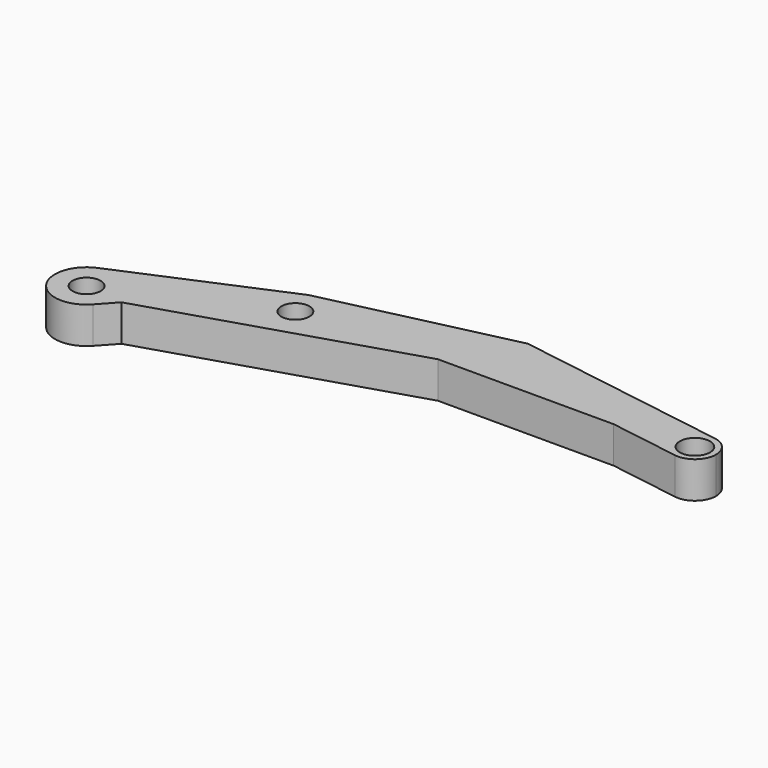
from build123d import *

# Parameters (mm, degrees)
F0_R     = 1
F0_R_2   = 1.075
F1_DEPTH = 2.6


with BuildPart() as f1:
    # F0 (on Top) → F1 (new body)
    with BuildSketch(Plane.XY):
        with BuildLine():
            ThreePointArc((-4.746486, 4.808329), (-5.079824, 1.124576), (-1.822392, 2.876799))
            ThreePointArc((-1.822392, 2.876799), (-2.614969, 4.520158), (-4.394433, 4.923045))
            ThreePointArc((-4.394433, 4.923045), (-4.572993, 4.873462), (-4.746486, 4.808329))
        make_face()
        with Locations((-3.922381, 2.876799)):
            Circle(F0_R, mode=Mode.SUBTRACT)
        with BuildLine():
            ThreePointArc((-4.394433, 4.923045), (-2.614969, 4.520158), (-1.822392, 2.876799))
            ThreePointArc((-1.822392, 2.876799), (-5.079824, 1.124576), (-4.746486, 4.808329))
            Line((-4.746486, 4.808329), (-15.782993, 0.099507))
            ThreePointArc((-15.782993, 0.099507), (-13.659897, -0.09261), (-12.65002, -1.97))
            ThreePointArc((-12.65002, -1.97), (-12.802118, -2.78321), (-13.237851, -3.486475))
            Line((-13.237851, -3.486475), (-12.155538, -2.30018))
            Line((-12.155538, -2.30018), (5.849769, 3.333367))
            Line((5.849769, 3.333367), (18.365619, 3.333367))
            Line((18.365619, 3.333367), (23.356251, 2.544399))
            ThreePointArc((23.356251, 2.544399), (22.108876, 4.260224), (23.824702, 5.507599))
            Line((23.824702, 5.507599), (8.583845, 7.917022))
            Line((8.583845, 7.917022), (-4.394433, 4.923045))
        make_face()
        with BuildLine():
            ThreePointArc((-12.65002, -1.97), (-13.659897, -0.09261), (-15.782993, 0.099507))
            ThreePointArc((-15.782993, 0.099507), (-16.73485, -3.272267), (-13.237851, -3.486475))
            ThreePointArc((-13.237851, -3.486475), (-12.802118, -2.78321), (-12.65002, -1.97))
        make_face()
        with Locations((-14.90002, -1.97)):
            Circle(F0_R, mode=Mode.SUBTRACT)
        with BuildLine():
            ThreePointArc((25.090476, 4.025999), (24.730945, 5.000335), (23.824702, 5.507599))
            ThreePointArc((23.824702, 5.507599), (22.108876, 4.260224), (23.356251, 2.544399))
            ThreePointArc((23.356251, 2.544399), (24.564812, 2.88553), (25.090476, 4.025999))
        make_face()
        with Locations((23.590476, 4.025999)):
            Circle(F0_R_2, mode=Mode.SUBTRACT)
    extrude(amount=F1_DEPTH)


solid = f1.part
